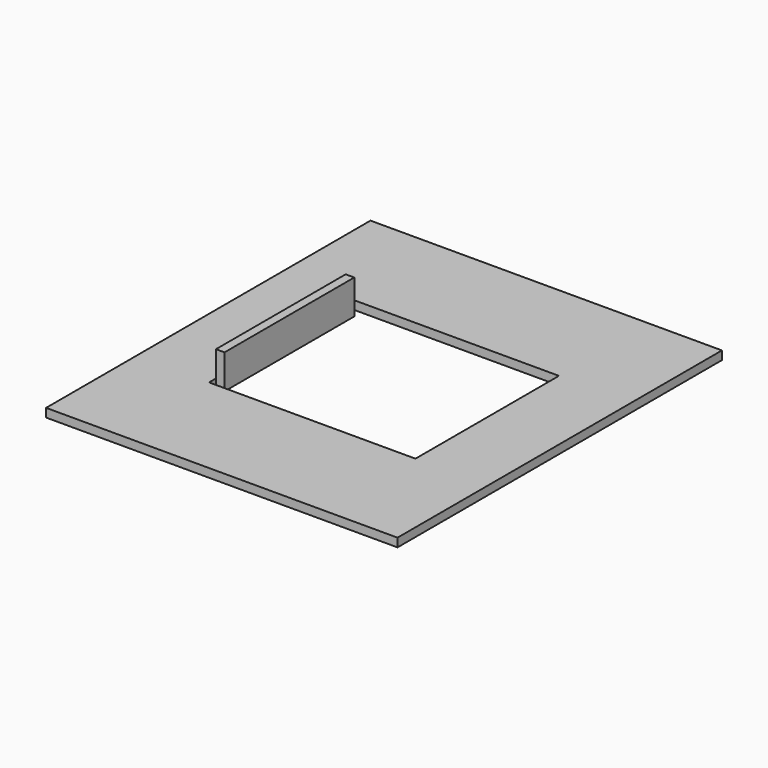
from build123d import *

# Parameters (mm, degrees)
F0_W     = 130
F0_H     = 150
F1_DEPTH = 3.175
F0_W_2   = 3.175
F0_H_2   = 60
F2_DEPTH = 12.7


with BuildPart() as f1:
    # F0 (on Top) → F1 (new body)
    with BuildSketch(Plane.XY):
        Rectangle(F0_W, F0_H)
        Polygon((38.175, 33.175), (38.175, 30), (38.175, -30), (38.175, -33.175), (-38.175, -33.175), (-38.175, -30), (-38.175, 30), (-38.175, 33.175), align=None, mode=Mode.SUBTRACT)
    extrude(amount=F1_DEPTH)


with BuildPart() as f2:
    # F0 (on Top) → F2 (new body)
    with BuildSketch(Plane.XY):
        with Locations((-36.5875, 0)):
            Rectangle(F0_W_2, F0_H_2)
    extrude(amount=F2_DEPTH)


solid = Compound([f1.part, f2.part])
